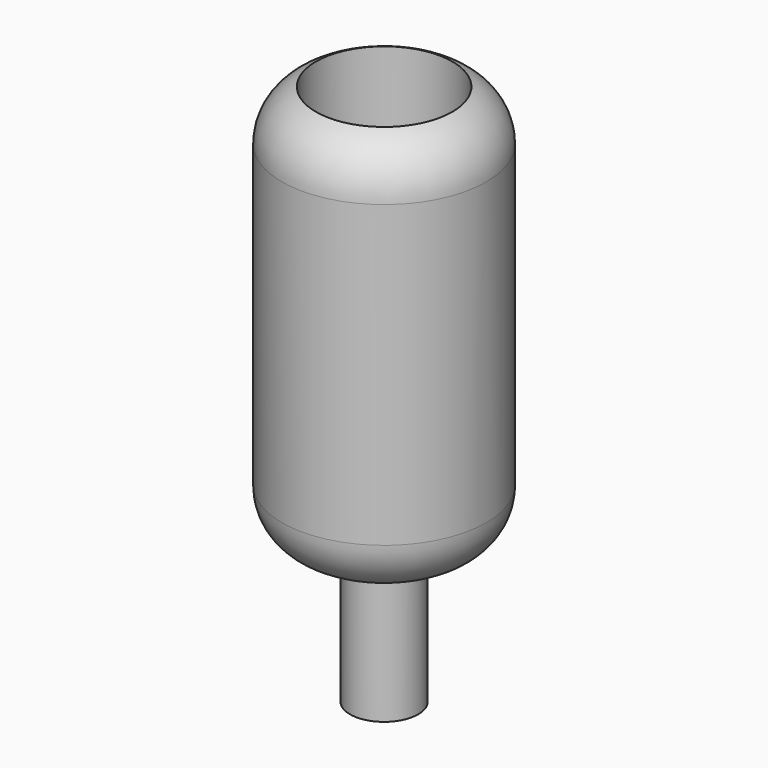
from build123d import *

# Parameters (mm, degrees)
F0_R     = 3.175
F1_DEPTH = 12.7
F2_R     = 9.525
F3_DEPTH = 38.1
F4_R     = 5.08
F5_R     = 6.35
F6_DEPTH = 31.75


with BuildPart() as f1:
    # F0 (on Top) → F1 (new body)
    with BuildSketch(Plane.XY):
        Circle(F0_R)
    extrude(amount=F1_DEPTH)

    # F2 (on face) → F3 (join)
    with BuildSketch(Plane.XY.offset(12.7)):
        Circle(F2_R)
    extrude(amount=F3_DEPTH)

    # F4
    f4_edges = [f1.edges().sort_by_distance(p)[0] for p in [
        (-9.525, 0, 50.8),
        (-9.525, 0, 12.7),
    ]]
    fillet(f4_edges, radius=F4_R)

    # F5 (on face) → F6 (cut)
    with BuildSketch(Plane.XY.offset(50.8)):
        Circle(F5_R)
    extrude(amount=-F6_DEPTH, mode=Mode.SUBTRACT)


solid = f1.part
